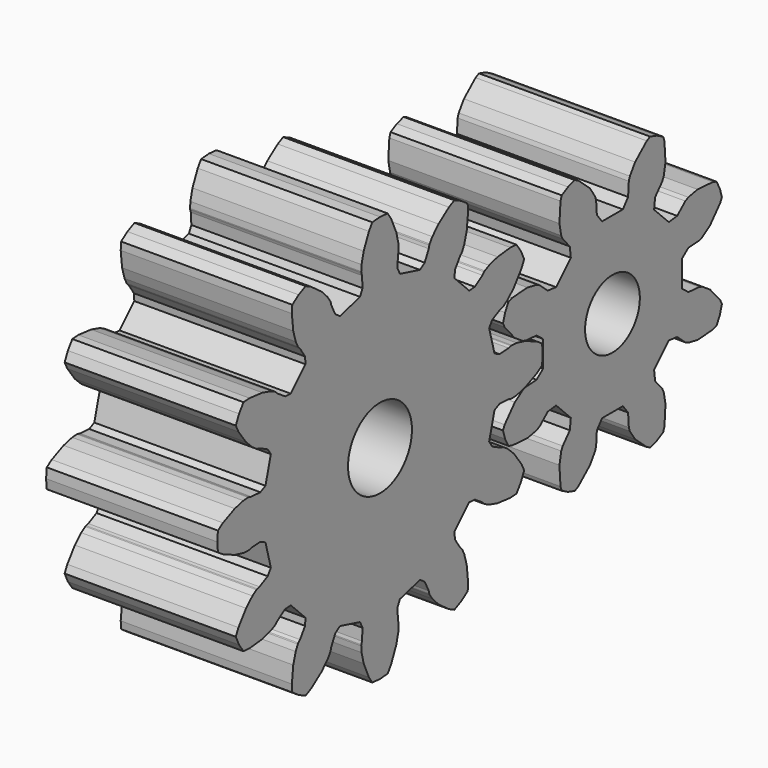
from build123d import *

# Parameters (mm, degrees)
F3_DEPTH = 15
F2_R     = 3
F1_R     = 3.5
F4_DEPTH = 25


with BuildPart() as f3:
    # F0 (on Right) → F3 (new body)
    with BuildSketch(Plane.YZ):
        Polygon((4.475036, -9.65123), (5.137134, -9.606305), (5.622818, -8.912677), (5.980676, -8.145248), (5.688533, -7.549392), (4.855847, -6.408259), (4.155875, -5.735091), (3.716169, -5.439825), (3.635569, -5.404138), (3.383806, -5.341919), (2.488097, -4.896087), (2.141182, -4.382206), (2.730542, -2.182685), (3.287919, -1.911109), (4.286543, -1.972862), (4.535685, -2.044859), (4.62333, -2.054254), (5.15176, -2.018399), (6.094537, -1.785404), (7.386231, -1.213497), (7.937162, -0.843541), (8.010963, 0), (7.937162, 0.843541), (7.386231, 1.213497), (6.094537, 1.785404), (5.15176, 2.018399), (4.62333, 2.054254), (4.535685, 2.044859), (4.286543, 1.972862), (3.287919, 1.911109), (2.730542, 2.182685), (2.141182, 4.382206), (2.488097, 4.896087), (3.383806, 5.341919), (3.635569, 5.404138), (3.716169, 5.439825), (4.155875, 5.735091), (4.855847, 6.408259), (5.688533, 7.549392), (5.980676, 8.145248), (5.622818, 8.912677), (5.137134, 9.606305), (4.475036, 9.65123), (3.070443, 9.500669), (2.137476, 9.23106), (1.661915, 8.997897), (1.59071, 8.945938), (1.410945, 8.759015), (0.576988, 8.206224), (-0.041502, 8.162727), (-1.651664, 9.772889), (-1.608167, 10.391379), (-1.055376, 11.225336), (-0.868453, 11.405101), (-0.816494, 11.476306), (-0.583331, 11.951867), (-0.313722, 12.884834), (-0.163161, 14.289427), (-0.208086, 14.951525), (-0.901714, 15.437209), (-1.669143, 15.795067), (-2.264999, 15.502924), (-3.406132, 14.670238), (-4.0793, 13.970266), (-4.374566, 13.53056), (-4.410253, 13.44996), (-4.472472, 13.198197), (-4.918304, 12.302488), (-5.432185, 11.955573), (-7.631706, 12.544933), (-7.903282, 13.10231), (-7.841529, 14.100934), (-7.769532, 14.350076), (-7.760137, 14.437721), (-7.795992, 14.966151), (-8.028987, 15.908928), (-8.600894, 17.200622), (-8.97085, 17.751553), (-9.814391, 17.825354), (-10.657932, 17.751553), (-11.027888, 17.200622), (-11.599795, 15.908928), (-11.83279, 14.966151), (-11.868645, 14.437721), (-11.85925, 14.350076), (-11.787253, 14.100934), (-11.7255, 13.10231), (-11.997076, 12.544933), (-14.196597, 11.955573), (-14.710478, 12.302488), (-15.15631, 13.198197), (-15.218529, 13.44996), (-15.254216, 13.53056), (-15.549482, 13.970266), (-16.22265, 14.670238), (-17.363783, 15.502924), (-17.959639, 15.795067), (-18.727068, 15.437209), (-19.420696, 14.951525), (-19.465621, 14.289427), (-19.31506, 12.884834), (-19.045451, 11.951867), (-18.812288, 11.476306), (-18.760329, 11.405101), (-18.573406, 11.225336), (-18.020615, 10.391379), (-17.977118, 9.772889), (-19.58728, 8.162727), (-20.20577, 8.206224), (-21.039727, 8.759015), (-21.219492, 8.945938), (-21.290697, 8.997897), (-21.766258, 9.23106), (-22.699225, 9.500669), (-24.103818, 9.65123), (-24.765916, 9.606305), (-25.2516, 8.912677), (-25.609458, 8.145248), (-25.317315, 7.549392), (-24.484629, 6.408259), (-23.784657, 5.735091), (-23.344951, 5.439825), (-23.264351, 5.404138), (-23.012588, 5.341919), (-22.116879, 4.896087), (-21.769964, 4.382206), (-22.359324, 2.182685), (-22.916701, 1.911109), (-23.915325, 1.972862), (-24.164467, 2.044859), (-24.252112, 2.054254), (-24.780542, 2.018399), (-25.723319, 1.785404), (-27.015013, 1.213497), (-27.565944, 0.843541), (-27.639745, 0), (-27.565944, -0.843541), (-27.015013, -1.213497), (-25.723319, -1.785404), (-24.780542, -2.018399), (-24.252112, -2.054254), (-24.164467, -2.044859), (-23.915325, -1.972862), (-22.916701, -1.911109), (-22.359324, -2.182685), (-21.769964, -4.382206), (-22.116879, -4.896087), (-23.012588, -5.341919), (-23.264351, -5.404138), (-23.344951, -5.439825), (-23.784657, -5.735091), (-24.484629, -6.408259), (-25.317315, -7.549392), (-25.609458, -8.145248), (-25.2516, -8.912677), (-24.765916, -9.606305), (-24.103818, -9.65123), (-22.699225, -9.500669), (-21.766258, -9.23106), (-21.290697, -8.997897), (-21.219492, -8.945938), (-21.039727, -8.759015), (-20.20577, -8.206224), (-19.58728, -8.162727), (-17.977118, -9.772889), (-18.020615, -10.391379), (-18.573406, -11.225336), (-18.760329, -11.405101), (-18.812288, -11.476306), (-19.045451, -11.951867), (-19.31506, -12.884834), (-19.465621, -14.289427), (-19.420696, -14.951525), (-18.727068, -15.437209), (-17.959639, -15.795067), (-17.363783, -15.502924), (-16.22265, -14.670238), (-15.549482, -13.970266), (-15.254216, -13.53056), (-15.218529, -13.44996), (-15.15631, -13.198197), (-14.710478, -12.302488), (-14.196597, -11.955573), (-11.997076, -12.544933), (-11.7255, -13.10231), (-11.787253, -14.100934), (-11.85925, -14.350076), (-11.868645, -14.437721), (-11.83279, -14.966151), (-11.599795, -15.908928), (-11.027888, -17.200622), (-10.657932, -17.751553), (-9.814391, -17.825354), (-8.97085, -17.751553), (-8.600894, -17.200622), (-8.028987, -15.908928), (-7.795992, -14.966151), (-7.760137, -14.437721), (-7.769532, -14.350076), (-7.841529, -14.100934), (-7.903282, -13.10231), (-7.631706, -12.544933), (-5.432185, -11.955573), (-4.918304, -12.302488), (-4.472472, -13.198197), (-4.410253, -13.44996), (-4.374566, -13.53056), (-4.0793, -13.970266), (-3.406132, -14.670238), (-2.264999, -15.502924), (-1.669143, -15.795067), (-0.901714, -15.437209), (-0.208086, -14.951525), (-0.163161, -14.289427), (-0.313722, -12.884834), (-0.583331, -11.951867), (-0.816494, -11.476306), (-0.868453, -11.405101), (-1.055376, -11.225336), (-1.608167, -10.391379), (-1.651664, -9.772889), (-0.041502, -8.162727), (0.576988, -8.206224), (1.410945, -8.759015), (1.59071, -8.945938), (1.661915, -8.997897), (2.137476, -9.23106), (3.070443, -9.500669), align=None)
        Polygon((-9.000918, -1.827091), (-9.398568, -1.956295), (-9.814391, -2), (-10.230214, -1.956295), (-10.627864, -1.827091), (-10.989962, -1.618034), (-11.300681, -1.338261), (-11.546442, -1), (-11.716504, -0.618034), (-11.803435, -0.209057), (-11.803435, 0.209057), (-11.716504, 0.618034), (-11.546442, 1), (-11.300681, 1.338261), (-10.989962, 1.618034), (-10.627864, 1.827091), (-10.230214, 1.956295), (-9.814391, 2), (-9.398568, 1.956295), (-9.000918, 1.827091), (-8.63882, 1.618034), (-8.328101, 1.338261), (-8.08234, 1), (-7.912278, 0.618034), (-7.825347, 0.209057), (-7.825347, -0.209057), (-7.912278, -0.618034), (-8.08234, -1), (-8.328101, -1.338261), (-8.63882, -1.618034), align=None, mode=Mode.SUBTRACT)
        Polygon((4.645083, 5.693144), (4.254442, 5.559537), (3.8872, 4.872477), (3.661054, 4.126973), (3.842805, 3.756273), (4.955335, 2.481777), (5.808273, 1.909022), (6.151775, 1.791537), (7.334702, 1.711272), (8.060963, 1.138556), (8.060963, -1.138556), (7.334702, -1.711272), (6.151775, -1.791537), (5.808273, -1.909022), (4.955335, -2.481777), (3.842805, -3.756273), (3.661054, -4.126973), (3.8872, -4.872477), (4.254442, -5.559537), (4.645083, -5.693144), (6.332966, -5.807671), (7.341083, -5.609553), (7.66705, -5.449734), (8.560262, -4.670034), (9.478776, -4.561462), (11.088938, -6.171623), (10.980366, -7.090138), (10.200666, -7.98335), (10.040847, -8.309317), (9.842728, -9.317434), (9.957256, -11.005317), (10.090863, -11.395958), (10.777923, -11.7632), (11.523427, -11.989346), (11.894127, -11.807595), (13.168623, -10.695065), (13.741378, -9.842127), (13.858863, -9.498625), (13.939128, -8.315698), (14.511844, -7.589437), (16.788956, -7.589437), (17.361672, -8.315698), (17.441937, -9.498625), (17.559421, -9.842127), (18.132177, -10.695065), (19.406673, -11.807595), (19.777373, -11.989346), (20.522877, -11.7632), (21.209937, -11.395958), (21.343544, -11.005317), (21.458071, -9.317434), (21.259953, -8.309317), (21.100134, -7.98335), (20.320434, -7.090138), (20.211862, -6.171623), (21.822023, -4.561462), (22.740538, -4.670034), (23.63375, -5.449734), (23.959717, -5.609553), (24.967834, -5.807671), (26.655717, -5.693144), (27.046358, -5.559537), (27.413599, -4.872477), (27.639745, -4.126973), (27.457995, -3.756273), (26.345465, -2.481777), (25.492527, -1.909022), (25.149025, -1.791537), (23.966098, -1.711272), (23.239837, -1.138556), (23.239837, 1.138556), (23.966098, 1.711272), (25.149025, 1.791537), (25.492527, 1.909022), (26.345465, 2.481777), (27.457995, 3.756273), (27.639745, 4.126973), (27.413599, 4.872477), (27.046358, 5.559537), (26.655717, 5.693144), (24.967834, 5.807671), (23.959717, 5.609553), (23.63375, 5.449734), (22.740538, 4.670034), (21.822023, 4.561462), (20.211862, 6.171623), (20.320434, 7.090138), (21.100134, 7.98335), (21.259953, 8.309317), (21.458071, 9.317434), (21.343544, 11.005317), (21.209937, 11.395958), (20.522877, 11.7632), (19.777373, 11.989346), (19.406673, 11.807595), (18.132177, 10.695065), (17.559421, 9.842127), (17.441937, 9.498625), (17.361672, 8.315698), (16.788956, 7.589437), (14.511844, 7.589437), (13.939128, 8.315698), (13.858863, 9.498625), (13.741378, 9.842127), (13.168623, 10.695065), (11.894127, 11.807595), (11.523427, 11.989346), (10.777923, 11.7632), (10.090863, 11.395958), (9.957256, 11.005317), (9.842728, 9.317434), (10.040847, 8.309317), (10.200666, 7.98335), (10.980366, 7.090138), (11.088938, 6.171623), (9.478776, 4.561462), (8.560262, 4.670034), (7.66705, 5.449734), (7.341083, 5.609553), (6.332966, 5.807671), align=None)
        Polygon((14.199651, 1.376709), (14.517587, 1.648252), (14.885033, 1.847759), (15.285929, 1.96651), (15.702754, 1.999315), (16.117291, 1.94474), (16.511422, 1.805171), (16.867923, 1.586707), (17.171212, 1.298896), (17.408034, 0.954318), (17.568039, 0.568031), (17.644235, 0.156918), (17.63329, -0.261052), (17.535683, -0.667614), (17.35568, -1.044997), (17.101149, -1.376709), (16.783212, -1.648252), (16.415767, -1.847759), (16.014871, -1.96651), (15.598046, -1.999315), (15.183509, -1.94474), (14.789378, -1.805171), (14.432877, -1.586707), (14.129588, -1.298896), (13.892766, -0.954318), (13.73276, -0.568031), (13.656565, -0.156918), (13.66751, 0.261052), (13.765117, 0.667614), (13.94512, 1.044997), align=None, mode=Mode.SUBTRACT)
    extrude(amount=F3_DEPTH)

    # F2 (on face) + F1 (on face) → F4 (cut)
    with BuildSketch(Plane.YZ):
        with Locations((15.650401, -2e-06)):
            Circle(F2_R)
        Polygon((13.94512, 1.044997), (14.199651, 1.376709), (14.517587, 1.648252), (14.885033, 1.847759), (15.285929, 1.96651), (15.702754, 1.999315), (16.117291, 1.94474), (16.511422, 1.805171), (16.867923, 1.586707), (17.171212, 1.298896), (17.408034, 0.954318), (17.568039, 0.568031), (17.644235, 0.156918), (17.63329, -0.261052), (17.535683, -0.667614), (17.35568, -1.044997), (17.101149, -1.376709), (16.783212, -1.648252), (16.415767, -1.847759), (16.014871, -1.96651), (15.598046, -1.999315), (15.183509, -1.94474), (14.789378, -1.805171), (14.432877, -1.586707), (14.129588, -1.298896), (13.892766, -0.954318), (13.73276, -0.568031), (13.656565, -0.156918), (13.66751, 0.261052), (13.765117, 0.667614), align=None, mode=Mode.SUBTRACT)
    with BuildSketch(Plane.YZ):
        with Locations((-9.814391, -3e-06)):
            Circle(F1_R)
        Polygon((-9.398568, -1.956295), (-9.814391, -2), (-10.230214, -1.956295), (-10.627864, -1.827091), (-10.989962, -1.618034), (-11.300681, -1.338261), (-11.546442, -1), (-11.716504, -0.618034), (-11.803435, -0.209057), (-11.803435, 0.209057), (-11.716504, 0.618034), (-11.546442, 1), (-11.300681, 1.338261), (-10.989962, 1.618034), (-10.627864, 1.827091), (-10.230214, 1.956295), (-9.814391, 2), (-9.398568, 1.956295), (-9.000918, 1.827091), (-8.63882, 1.618034), (-8.328101, 1.338261), (-8.08234, 1), (-7.912278, 0.618034), (-7.825347, 0.209057), (-7.825347, -0.209057), (-7.912278, -0.618034), (-8.08234, -1), (-8.328101, -1.338261), (-8.63882, -1.618034), (-9.000918, -1.827091), align=None, mode=Mode.SUBTRACT)
    extrude(amount=F4_DEPTH, mode=Mode.SUBTRACT)


solid = f3.part
